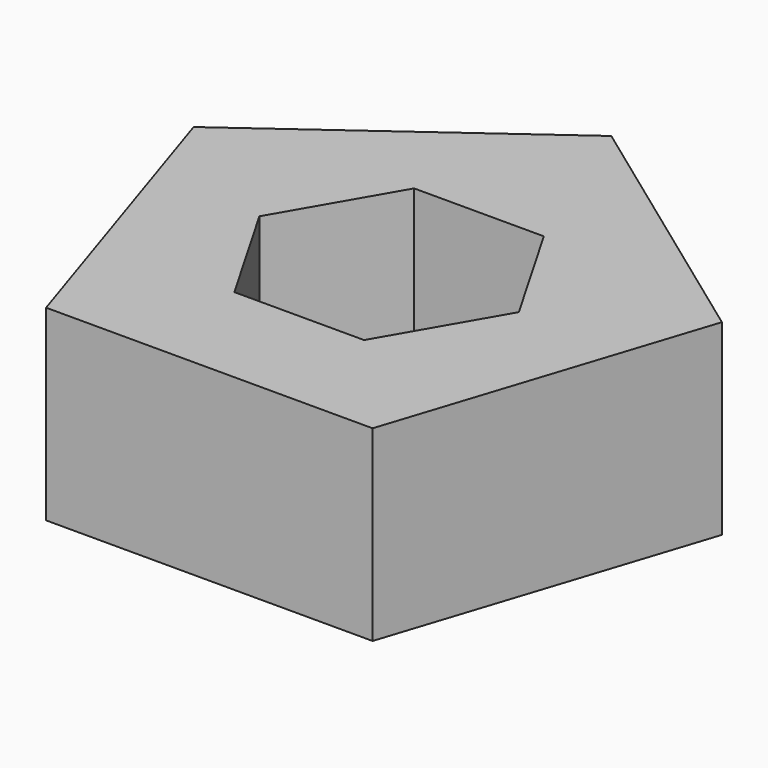
from build123d import *

# Parameters (mm, degrees)
F1_DEPTH = 25


with BuildPart() as f1:
    # F0 (on Top) → F1 (new body)
    with BuildSketch(Plane.XY):
        Polygon((21.796276, -30), (35.267115, 11.45898), (0, 37.082039), (-35.267115, 11.45898), (-21.796276, -30), align=None)
        Polygon((-17.320508, 0), (-8.660254, 15), (8.660254, 15), (17.320508, 0), (8.660254, -15), (-8.660254, -15), align=None, mode=Mode.SUBTRACT)
    extrude(amount=F1_DEPTH)


solid = f1.part
